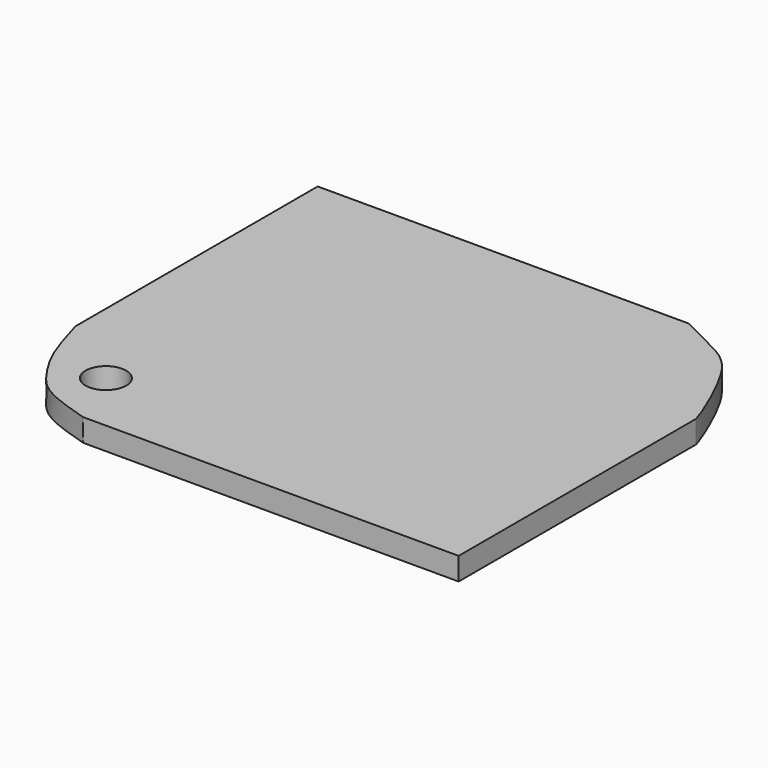
from build123d import *

# Parameters (mm, degrees)
F0_W     = 400
F0_H     = 352
F1_DEPTH = 19
F3_DEPTH = 19.001
F4_R     = 17.0766139483
F5_DEPTH = 19.0010001


with BuildPart() as f1:
    # F0 (on Top) → F1 (new body)
    with BuildSketch(Plane.XY):
        Rectangle(F0_W, F0_H)
    extrude(amount=F1_DEPTH)

    # F2 (on face) → F3 (cut, through all)
    with BuildSketch(Plane.XY.offset(19)):
        with BuildLine():
            add(Edge.make_bspline(
                [(-200, -78.359618783), (-195.7803636721, -92.9464094347), (-188.2077942368, -119.1238987881), (-172.8338241624, -143.2121066887), (-156.2569923786, -165.3855569544), (-115.975253997, -175.3258984721), (-115.6307756901, -176)],
                knots=[0, 0, 0, 0, 0.2648009651, 0.4752124447, 0.7001594462, 0.9450581233, 0.9450581233, 0.9450581233, 0.9450581233], degree=3))
            Line((-200, -78.359618783), (-200, -176))
            Line((-200, -176), (-117.4777597189, -176))
            Line((-117.4777597189, -176), (-115.6307756901, -176))
        make_face()
        with BuildLine():
            Line((200, 176), (111.9655743241, 176))
            add(Edge.make_bspline(
                [(111.9655743241, 176), (123.0835042522, 170.3676733426), (145.2416377316, 159.1423960938), (172.7110494727, 144.455694766), (198.7014382707, 79.4978346928), (200, 73.2613801956)],
                knots=[0, 0, 0, 0, 0.2786310963, 0.5553142594, 0.9453657408, 0.9453657408, 0.9453657408, 0.9453657408], degree=3))
            Line((200, 73.2613801956), (200, 176))
        make_face()
    extrude(amount=-F3_DEPTH, mode=Mode.SUBTRACT)

    # F4 (on face) → F5 (cut, through all)
    with BuildSketch(Plane.XY.offset(19)):
        with Locations((-138.4022831917, -123.3757436275)):
            Circle(F4_R)
    extrude(amount=-F5_DEPTH, mode=Mode.SUBTRACT)


solid = f1.part
